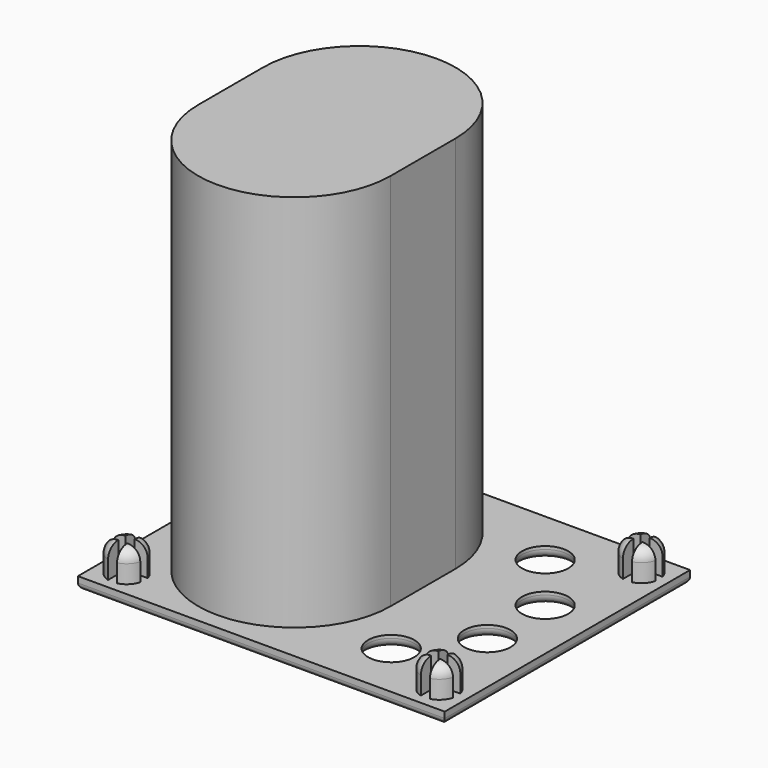
from build123d import *

# Parameters (mm, degrees)
SKETCH001_W                = 61
SKETCH001_H                = 51
PAD_DEPTH                  = 2
SKETCH002_R                = 3
PAD001_DEPTH               = 5
SKETCH002_MIRRORED_2_R     = 3
PAD001_MIRRORED_2_DEPTH    = 5
FILLET_R                   = 2
FILLET001_R                = 1
POCKET_DEPTH               = 5
POCKET_MIRRORED002_2_DEPTH = 5
PAD011_DEPTH               = 65
SKETCH038_R                = 3.85
POCKET007_DEPTH            = 63
FILLET014_R                = 14
FILLET015_R                = 1.5


with BuildPart() as part:
    # Sketch001 → Pad (new body)
    with BuildSketch(Plane.XY):
        Rectangle(SKETCH001_W, SKETCH001_H)
    extrude(amount=PAD_DEPTH)

    # Sketch002 (on DatumPlane) → Pad001 (join)
    with BuildSketch(Plane.XY.offset(2)):
        with Locations((-26, 21)):
            Circle(SKETCH002_R)
    pad001 = extrude(amount=PAD001_DEPTH)

    # Sketch002 Mirrored 2 → Pad001 Mirrored 2 (add)
    with BuildSketch(Plane(origin=(0, 0, 2), x_dir=(-1, 0, 0), z_dir=(0, 0, -1))):
        with Locations((-26, 21)):
            Circle(SKETCH002_MIRRORED_2_R)
    pad001_mirrored_2 = extrude(amount=-PAD001_MIRRORED_2_DEPTH)

    # Mirrored001: Pad001, Pad001 Mirrored 2 across Sketch002 H_Axis
    add(pad001.mirror(Plane(origin=(0, 0, 2), x_dir=(0, 0, 1), z_dir=(0, 1, 0))))
    add(pad001_mirrored_2.mirror(Plane(origin=(0, 0, 2), x_dir=(0, 0, 1), z_dir=(0, 1, 0))))

    # Fillet
    fillet_edges = [part.edges().sort_by_distance(p)[0] for p in [
        (29, 21, 7),
        (29, -21, 7),
        (-29, -21, 7),
        (-29, 21, 7),
    ]]
    fillet(fillet_edges, radius=FILLET_R)

    # Fillet001
    fillet001_edges = [part.edges().sort_by_distance(p)[0] for p in [
        (0, 25.5, 0),
        (30.5, 0, 0),
        (0, -25.5, 0),
        (-30.5, 0, 0),
    ]]
    fillet(fillet001_edges, radius=FILLET001_R)

    # Sketch003 (on DatumPlane) → Pocket (cut)
    with BuildSketch(Plane.XY.offset(7)):
        Polygon((-29.265642, -20.28286), (-26.765642, -20.28286), (-26.765642, -17.78286), (-25.265642, -17.78286), (-25.265642, -20.28286), (-22.765642, -20.28286), (-22.765642, -21.78286), (-25.265642, -21.78286), (-25.265642, -24.28286), (-26.765642, -24.28286), (-26.765642, -21.78286), (-29.265642, -21.78286), align=None)
    pocket = extrude(amount=-POCKET_DEPTH, mode=Mode.SUBTRACT)

    # Sketch003 Mirrored002 2 → Pocket Mirrored002 2 (cut)
    with BuildSketch(Plane(origin=(0, 0, 7), x_dir=(-1, 0, 0), z_dir=(0, 0, -1))):
        Polygon((-29.265642, -20.28286), (-26.765642, -20.28286), (-26.765642, -17.78286), (-25.265642, -17.78286), (-25.265642, -20.28286), (-22.765642, -20.28286), (-22.765642, -21.78286), (-25.265642, -21.78286), (-25.265642, -24.28286), (-26.765642, -24.28286), (-26.765642, -21.78286), (-29.265642, -21.78286), align=None)
    pocket_mirrored002_2 = extrude(amount=POCKET_MIRRORED002_2_DEPTH, mode=Mode.SUBTRACT)

    # Mirrored003: Pocket, Pocket Mirrored002 2 across Sketch003 H_Axis
    add(pocket.mirror(Plane(origin=(0, 0, 7), x_dir=(0, 0, 1), z_dir=(0, 1, 0))), mode=Mode.SUBTRACT)
    add(pocket_mirrored002_2.mirror(Plane(origin=(0, 0, 7), x_dir=(0, 0, 1), z_dir=(0, 1, 0))), mode=Mode.SUBTRACT)


with BuildPart() as part_1:
    # Body placement: moved
    add(part.part.moved(Location((0, -65, 0))))


with BuildPart() as part_2:
    # Clone placement: moved
    add(part_1.part.moved(Location((0, 65, 0))))

    # Sketch037 → Pad011 (new body)
    with BuildSketch(Plane(origin=(0, 0, 0), x_dir=(1, 0, 0), z_dir=(0, 0, -1))):
        with BuildLine():
            ThreePointArc((6.5, 6.75), (-9.5, 22.75), (-25.5, 6.75))
            Line((-25.5, 6.75), (-25.5, -6.75))
            ThreePointArc((-25.5, -6.75), (-9.5, -22.75), (6.5, -6.75))
            Line((6.5, -6.75), (6.5, 6.75))
        make_face()
    extrude(amount=-PAD011_DEPTH)

    # Sketch038 → Pocket007 (cut)
    with BuildSketch(Plane.XY):
        with Locations((14, 16)):
            Circle(SKETCH038_R)
        with Locations((14, -16)):
            Circle(SKETCH038_R)
        with Locations((22, 6)):
            Circle(SKETCH038_R)
        with Locations((22, -6)):
            Circle(SKETCH038_R)
        with BuildLine():
            ThreePointArc((5.35, 6.75), (-9.5, 21.6), (-24.35, 6.75))
            Line((-24.35, 6.75), (-24.35, -6.75))
            ThreePointArc((-24.35, -6.75), (-9.5, -21.6), (5.35, -6.75))
            Line((5.35, -6.75), (5.35, 6.75))
        make_face()
    extrude(amount=POCKET007_DEPTH, mode=Mode.SUBTRACT)

    # Fillet014
    fillet014_edges = [part_2.edges().sort_by_distance(p)[0] for p in [
        (-9.5, 21.6, 63),
        (-24.35, 0, 63),
        (-9.5, -21.6, 63),
        (5.35, 0, 63),
    ]]
    fillet(fillet014_edges, radius=FILLET014_R)

    # Fillet015
    fillet015_edges = [part_2.edges().sort_by_distance(p)[0] for p in [
        (18.15, -6, 0),
        (10.15, -16, 0),
        (18.15, 6, 0),
        (10.15, 16, 0),
    ]]
    fillet(fillet015_edges, radius=FILLET015_R)


with BuildPart() as part_3:
    # Body007 placement: moved
    add(part_2.part.moved(Location((225, 0, 0))))


solid = part_3.part
